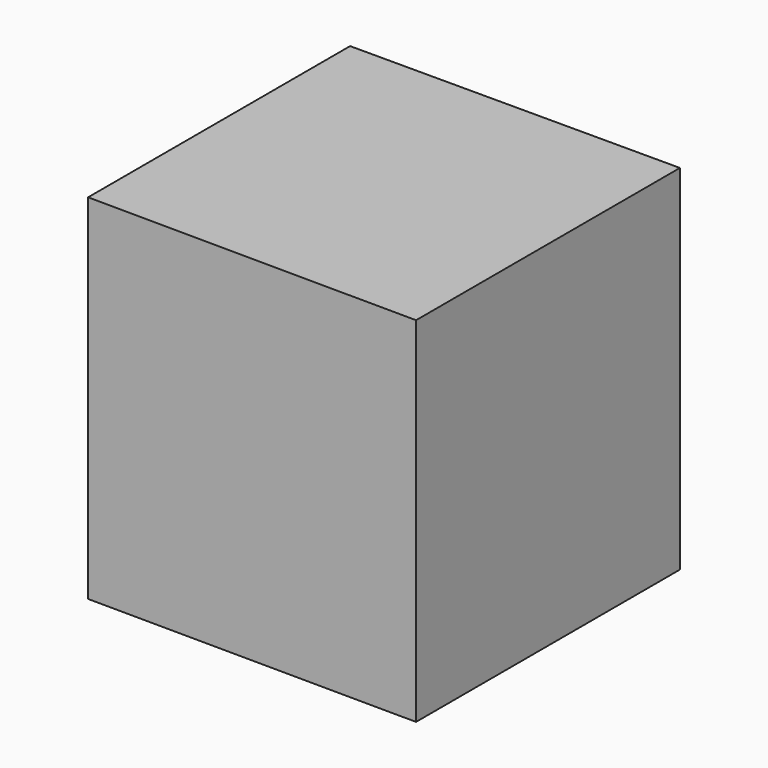
from build123d import *

# Parameters (mm, degrees)
F1_DEPTH = 25.4
F2_DEPTH = 50.6288483739
F3_DEPTH = 88.0838930607


with BuildPart() as f1:
    # F0 (on Top) → F1 (new body)
    with BuildSketch(Plane.XY):
        Polygon((-76.5340924263, 75.9874135256), (-76.5340924263, -75.9874135256), (76.5340924263, -77.080771327), (76.5340924263, 75.9874135256), align=None)
    extrude(amount=F1_DEPTH)

    # F2 (add): a face of the model
    f2_faces = [f1.faces().sort_by_distance(p)[0] for p in [
        (0.0914397246, -0.2736660249, 25.4),
    ]]
    extrude(f2_faces, amount=F2_DEPTH)

    # F3 (add): a face of the model
    f3_faces = [f1.faces().sort_by_distance(p)[0] for p in [
        (0.0914397246, -0.2736660249, 0),
    ]]
    extrude(f3_faces, amount=F3_DEPTH)


solid = f1.part
